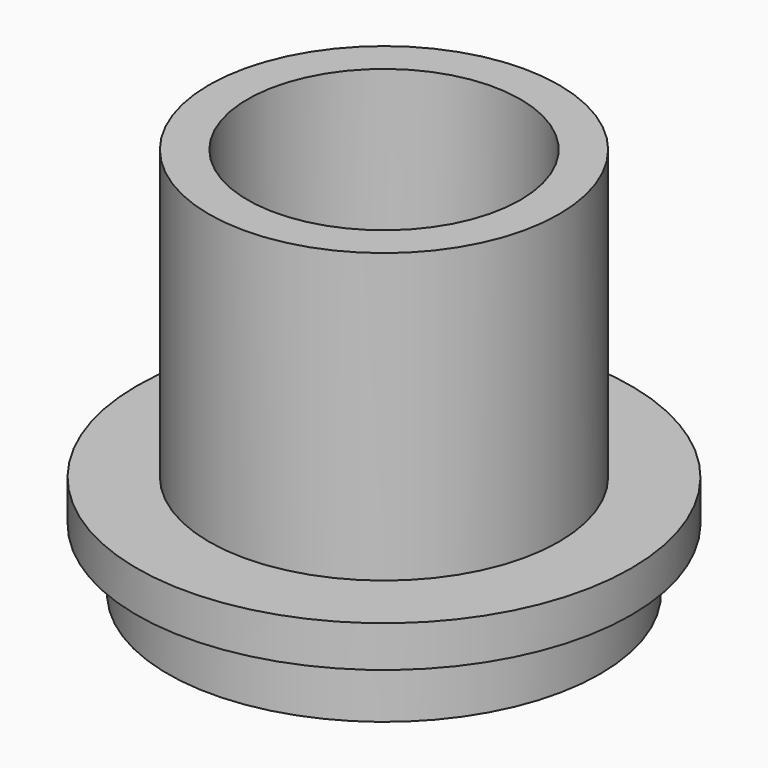
from build123d import *

# Parameters (mm, degrees)
F0_R     = 8.5
F0_R_2   = 6.625
F1_DEPTH = 14
F0_R_3   = 12
F0_R_4   = 10.5
F2_DEPTH = 2
F3_DEPTH = 5


with BuildPart() as f1:
    # F0 (on Top) → F1 (new body)
    with BuildSketch(Plane.XY):
        Circle(F0_R)
        Circle(F0_R_2, mode=Mode.SUBTRACT)
    extrude(amount=F1_DEPTH)



with BuildPart() as f2:
    # F0 (on Top) → F2 (new body)
    with BuildSketch(Plane.XY):
        Circle(F0_R_3)
        Circle(F0_R_4, mode=Mode.SUBTRACT)
        Circle(F0_R_4)
        Circle(F0_R, mode=Mode.SUBTRACT)
    extrude(amount=-F2_DEPTH)


with BuildPart() as f1_1:
    add(f1.part)

    add(f2.part)  # F3 merges F2
    # F0 (on Top) → F3 (join)
    with BuildSketch(Plane.XY):
        Circle(F0_R_4)
        Circle(F0_R, mode=Mode.SUBTRACT)
    extrude(amount=-F3_DEPTH)


solid = f1_1.part
